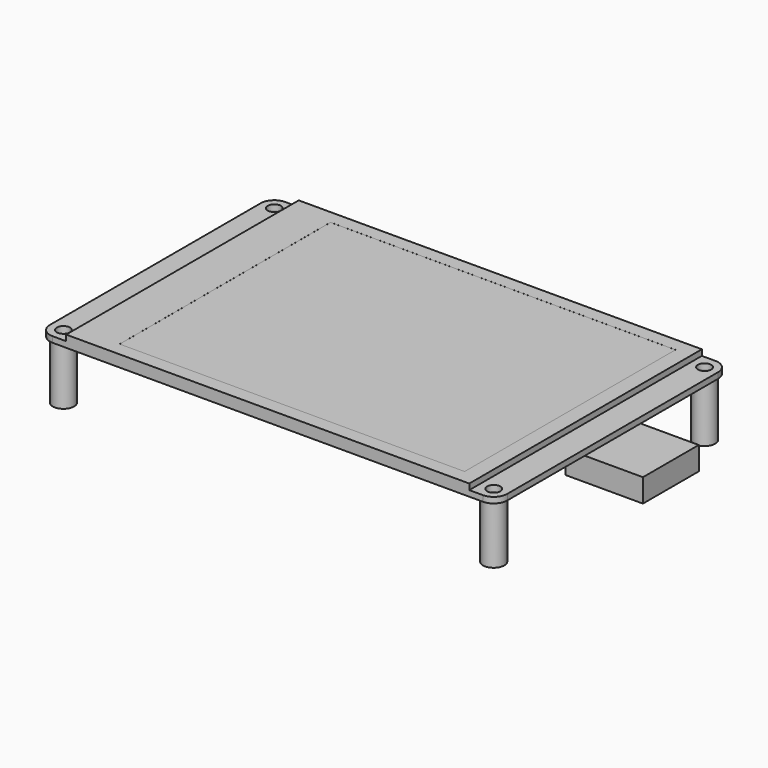
from build123d import *

# Parameters (mm, degrees)
PAD012_DEPTH    = 1.5
SKETCH014_R     = 1.7
POCKET004_DEPTH = 1.501
SKETCH015_W     = 104
SKETCH015_H     = 75
PAD011_DEPTH    = 1.5
SKETCH016_W     = 89
SKETCH016_H     = 68
POCKET005_DEPTH = 0.01
SKETCH019_W     = 20
SKETCH019_H     = 18
PAD010_DEPTH    = 6
SKETCH018_R     = 2.75
SKETCH018_R_2   = 1.7
PAD009_DEPTH    = 15


with BuildPart() as part:
    # Sketch017 → Pad012 (new body)
    with BuildSketch(Plane.XY):
        with BuildLine():
            Line((3.5, 75), (114.5, 75))
            ThreePointArc((118, 71.5), (116.9748737342, 73.9748737342), (114.5, 75))
            Line((118, 71.5), (118, 3.5))
            ThreePointArc((114.5, 0), (116.9748737342, 1.0251262658), (118, 3.5))
            Line((114.5, 0), (3.5, 0))
            ThreePointArc((0, 3.5), (1.0251262658, 1.0251262658), (3.5, 0))
            Line((0, 3.5), (0, 71.5))
            ThreePointArc((3.5, 75), (1.0251262658, 73.9748737342), (0, 71.5))
        make_face()
    extrude(amount=PAD012_DEPTH)

    # Sketch014 (on Face10 of Pad012) → Pocket004 (cut, through all)
    with BuildSketch(Plane.XY.offset(1.5)):
        with Locations((3.5, 3.5)):
            Circle(SKETCH014_R)
        with Locations((3.5, 71.5)):
            Circle(SKETCH014_R)
        with Locations((114.5, 71.5)):
            Circle(SKETCH014_R)
        with Locations((114.5, 3.5)):
            Circle(SKETCH014_R)
    extrude(amount=-POCKET004_DEPTH, mode=Mode.SUBTRACT)

    # Sketch015 (on Face5 of Pocket004) → Pad011 (join)
    with BuildSketch(Plane.XY.offset(1.5)):
        with Locations((59, 37.5)):
            Rectangle(SKETCH015_W, SKETCH015_H)
    extrude(amount=PAD011_DEPTH)

    # Sketch016 (on Face19 of Pad011) → Pocket005 (cut)
    with BuildSketch(Plane.XY.offset(3)):
        with Locations((62.5, 37.5)):
            Rectangle(SKETCH016_W, SKETCH016_H)
    extrude(amount=-POCKET005_DEPTH, mode=Mode.SUBTRACT)

    # Sketch019 (on Face4 of Pocket005) → Pad010 (join)
    with BuildSketch(Plane(origin=(0, 0, 0), x_dir=(1, 0, 0), z_dir=(0, 0, -1))):
        with Locations((123, -37.5)):
            Rectangle(SKETCH019_W, SKETCH019_H)
    extrude(amount=PAD010_DEPTH)

    # Sketch018 (on Face4 of Pad010) → Pad009 (join)
    with BuildSketch(Plane(origin=(0, 0, 0), x_dir=(1, 0, 0), z_dir=(0, 0, -1))):
        with Locations((3.5, -3.5)):
            Circle(SKETCH018_R)
        with Locations((3.5, -3.5)):
            Circle(SKETCH018_R_2, mode=Mode.SUBTRACT)
        with Locations((114.5, -3.5)):
            Circle(SKETCH018_R)
        with Locations((114.5, -3.5)):
            Circle(SKETCH018_R_2, mode=Mode.SUBTRACT)
        with Locations((114.5, -71.5)):
            Circle(SKETCH018_R)
        with Locations((114.5, -71.5)):
            Circle(SKETCH018_R_2, mode=Mode.SUBTRACT)
        with Locations((3.5, -71.5)):
            Circle(SKETCH018_R)
        with Locations((3.5, -71.5)):
            Circle(SKETCH018_R_2, mode=Mode.SUBTRACT)
    extrude(amount=PAD009_DEPTH)


with BuildPart() as part_1:
    # Body002 placement: moved
    add(part.part.moved(Location((-62.5, -37.5, 19))))


solid = part_1.part
